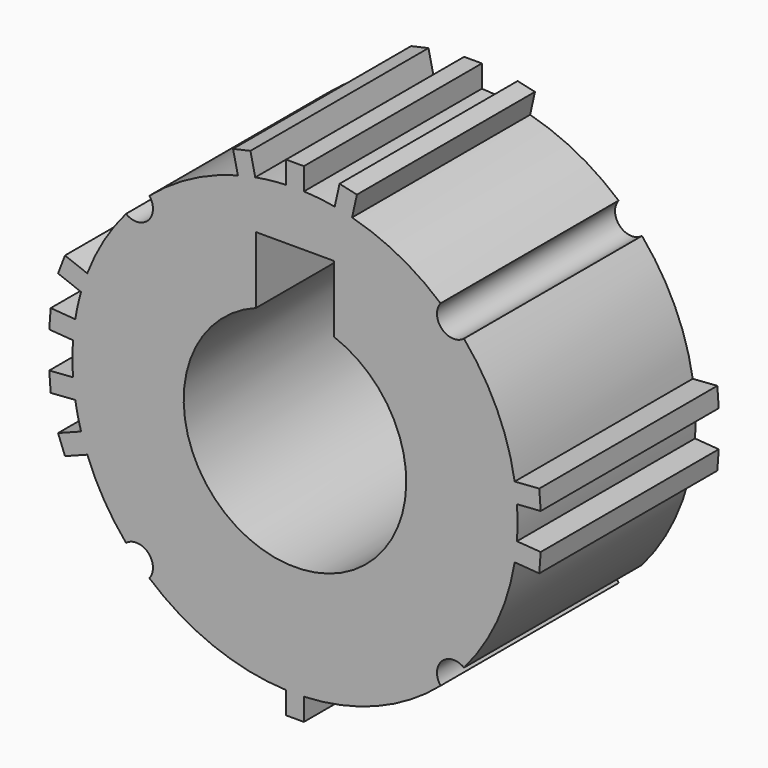
from build123d import *

# Parameters (mm, degrees)
F1_DEPTH = 25.4


with BuildPart() as f1:
    # F0 (on Front) → F1 (new body)
    with BuildSketch(Plane.XZ):
        with BuildLine():
            ThreePointArc((19.284791, 16.530482), (16.762226, 16.687837), (16.616092, 19.211078))
            ThreePointArc((16.616092, 19.211078), (11.870376, 22.455605), (6.516592, 24.549828))
            Line((6.516592, 24.549828), (7.06953, 27.028912))
            Line((7.06953, 27.028912), (5.086263, 27.471263))
            Line((5.086263, 27.471263), (4.533324, 24.992178))
            ThreePointArc((4.533324, 24.992178), (2.781418, 25.247252), (1.016, 25.379672))
            Line((1.016, 25.379672), (1.016, 27.919672))
            Line((1.016, 27.919672), (-1.016, 27.919672))
            Line((-1.016, 27.919672), (-1.016, 25.379672))
            ThreePointArc((-1.016, 25.379672), (-2.781418, 25.247252), (-4.533324, 24.992178))
            Line((-4.533324, 24.992178), (-5.086263, 27.471263))
            Line((-5.086263, 27.471263), (-7.06953, 27.028912))
            Line((-7.06953, 27.028912), (-6.516592, 24.549828))
            ThreePointArc((-6.516592, 24.549828), (-11.870376, 22.455605), (-16.616092, 19.211078))
            ThreePointArc((-16.616092, 19.211078), (-16.762226, 16.687837), (-19.284791, 16.530482))
            ThreePointArc((-19.284791, 16.530482), (-21.815816, 13.00885), (-23.710856, 9.107979))
            Line((-23.710856, 9.107979), (-26.248305, 10.082682))
            Line((-26.248305, 10.082682), (-27.040335, 8.020787))
            Line((-27.040335, 8.020787), (-24.413065, 7.011581))
            ThreePointArc((-24.413065, 7.011581), (-24.787675, 5.543569), (-25.074094, 4.055834))
            Line((-25.074094, 4.055834), (-27.880973, 4.261933))
            Line((-27.880973, 4.261933), (-28.042721, 2.059081))
            Line((-28.042721, 2.059081), (-25.331804, 1.860028))
            ThreePointArc((-25.331804, 1.860028), (-25.4, 0), (-25.331804, -1.860028))
            Line((-25.331804, -1.860028), (-28.042721, -2.059081))
            Line((-28.042721, -2.059081), (-27.880973, -4.261933))
            Line((-27.880973, -4.261933), (-25.074094, -4.055834))
            ThreePointArc((-25.074094, -4.055834), (-24.787675, -5.543569), (-24.413065, -7.011581))
            Line((-24.413065, -7.011581), (-27.040335, -8.020787))
            Line((-27.040335, -8.020787), (-26.248305, -10.082682))
            Line((-26.248305, -10.082682), (-23.710856, -9.107979))
            ThreePointArc((-23.710856, -9.107979), (-21.815816, -13.00885), (-19.284791, -16.530482))
            ThreePointArc((-19.284791, -16.530482), (-16.762226, -16.687837), (-16.616092, -19.211078))
            ThreePointArc((-16.616092, -19.211078), (-9.339997, -23.620424), (-1.016, -25.379672))
            Line((-1.016, -25.379672), (-1.016, -27.919672))
            Line((-1.016, -27.919672), (1.016, -27.919672))
            Line((1.016, -27.919672), (1.016, -25.379672))
            ThreePointArc((1.016, -25.379672), (9.339997, -23.620424), (16.616092, -19.211078))
            ThreePointArc((16.616092, -19.211078), (16.762226, -16.687837), (19.284791, -16.530482))
            ThreePointArc((19.284791, -16.530482), (23.039789, -10.692432), (25.074094, -4.055834))
            Line((25.074094, -4.055834), (27.880973, -4.261933))
            Line((27.880973, -4.261933), (28.042721, -2.059081))
            Line((28.042721, -2.059081), (25.331804, -1.860028))
            ThreePointArc((25.331804, -1.860028), (25.4, 0), (25.331804, 1.860028))
            Line((25.331804, 1.860028), (28.042721, 2.059081))
            Line((28.042721, 2.059081), (27.880973, 4.261933))
            Line((27.880973, 4.261933), (25.074094, 4.055834))
            ThreePointArc((25.074094, 4.055834), (23.039789, 10.692432), (19.284791, 16.530482))
        make_face()
        with BuildLine():
            ThreePointArc((4.445, 11.896721), (0, -12.7), (-4.445, 11.896721))
            Line((-4.445, 11.896721), (-4.445, 19.516721))
            Line((-4.445, 19.516721), (4.445, 19.516721))
            Line((4.445, 19.516721), (4.445, 11.896721))
        make_face(mode=Mode.SUBTRACT)
    extrude(amount=F1_DEPTH)


solid = f1.part
